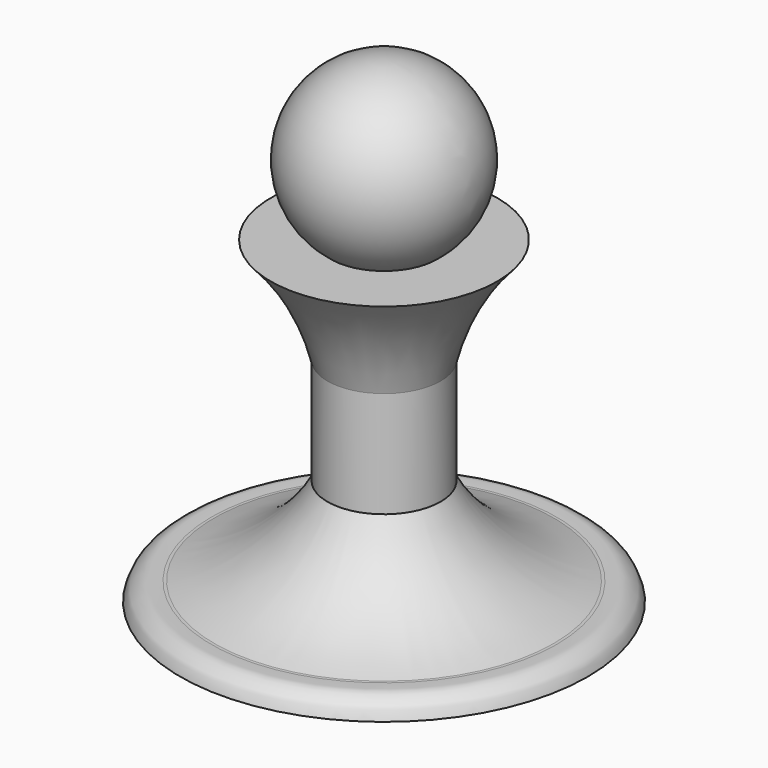
from build123d import *


with BuildPart() as f1:
    # F0 (on Front) → F1 (revolve)
    with BuildSketch(Plane.XZ):
        with BuildLine():
            Line((20.3200000065, -21.5046745792), (20.3200000065, 16.5953254208))
            ThreePointArc((20.3200000065, 16.5953254208), (27.9866332249, 36.9751210243), (40.6400000008, 54.6953253962))
            Line((40.6400000008, 54.6953253962), (19.05, 54.6953254223))
            ThreePointArc((19.05, 54.6953254223), (30.1206947131, 90.1355569934), (0, 111.8453254223))
            Line((0, 111.8453254223), (0, -59.6046745777))
            Line((0, -59.6046745777), (73.1672942638, -59.6046745777))
            add(Edge.make_bspline(
                [(61.959986691, -53.0842626437), (62.6450001306, -53.0985276683), (64.3581223713, -53.0994443767), (67.1779149327, -52.6746662287), (70.0853238531, -54.4786850628), (72.1952709838, -56.3169056368), (72.8322995659, -58.471589408), (73.1672942638, -59.6046745777)],
                knots=[0.0651311145, 0.0651311145, 0.0651311145, 0.0651311145, 0.1988680466, 0.3987292461, 0.6036957541, 0.7915951892, 1, 1, 1, 1], degree=3))
            ThreePointArc((61.959986691, -53.0842626437), (61.9686650692, -53.0861845922), (61.9773437204, -53.0881053077))
            Line((61.9773437204, -53.0881053077), (60.96, -53.0568286777))
            ThreePointArc((60.96, -53.0568286777), (37.1661352464, -41.7551803237), (20.3200000065, -21.5046745792))
        make_face()
    revolve(axis=Axis((0, 0, 26.1203254223), (0, 0, -1)))


solid = f1.part
